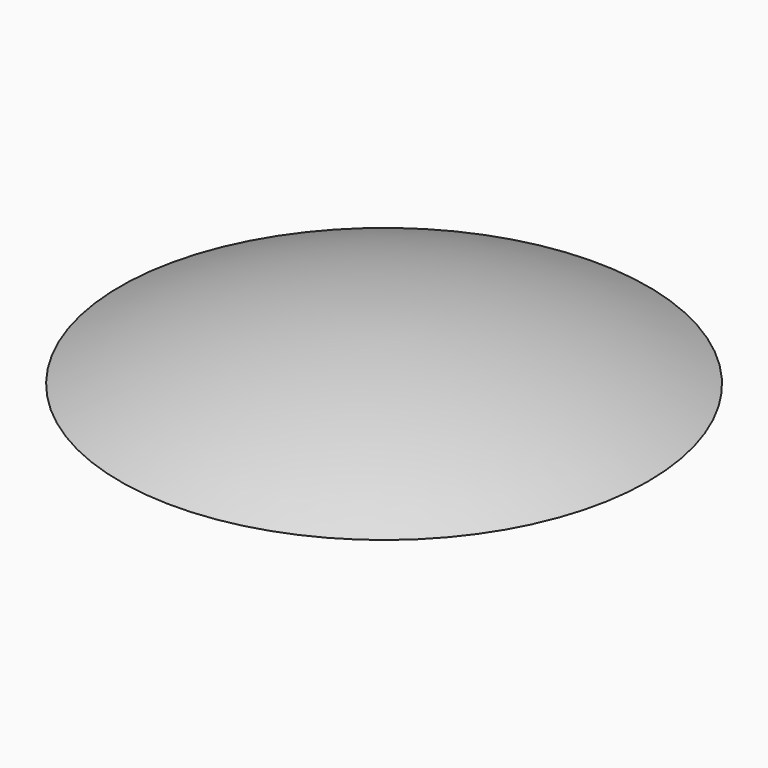
from build123d import *

# Parameters (mm, degrees)
CYLINDER001_R     = 600
CYLINDER001_DEPTH = 1200
CYLINDER_R        = 600
CYLINDER_DEPTH    = 1200


with BuildPart() as cylinder001:
    # Cylinder001 → Cylinder001 (new body)
    with BuildSketch(Plane.XY.offset(-654)):
        Circle(CYLINDER001_R)
    extrude(amount=CYLINDER001_DEPTH)


with BuildPart() as cut001:
    # Sphere001 → Sphere001 (revolve)
    with BuildSketch(Plane.XZ):
        with BuildLine():
            ThreePointArc((0, -600), (600, 0), (0, 600))
            Line((0, 600), (0, -600))
        make_face()
    revolve(axis=Axis((0, 0, 0), (0, 0, 1)))

    # Cut001: cut Cylinder001
    add(cylinder001.part, mode=Mode.SUBTRACT)


with BuildPart() as cut001_1:
    # Cut001 placement: moved
    add(cut001.part.moved(Location((0, 0, -3))))


with BuildPart() as cylinder:
    # Cylinder → Cylinder (new body)
    with BuildSketch(Plane.XY.offset(-654)):
        Circle(CYLINDER_R)
    extrude(amount=CYLINDER_DEPTH)


with BuildPart() as cut002:
    # Sphere → Sphere (revolve)
    with BuildSketch(Plane.XZ):
        with BuildLine():
            ThreePointArc((0, -600), (600, 0), (0, 600))
            Line((0, 600), (0, -600))
        make_face()
    revolve(axis=Axis((0, 0, 0), (0, 0, 1)))

    # Cut: cut Cylinder
    add(cylinder.part, mode=Mode.SUBTRACT)

    # Cut002: cut Cut001
    add(cut001_1.part, mode=Mode.SUBTRACT)


solid = cut002.part
